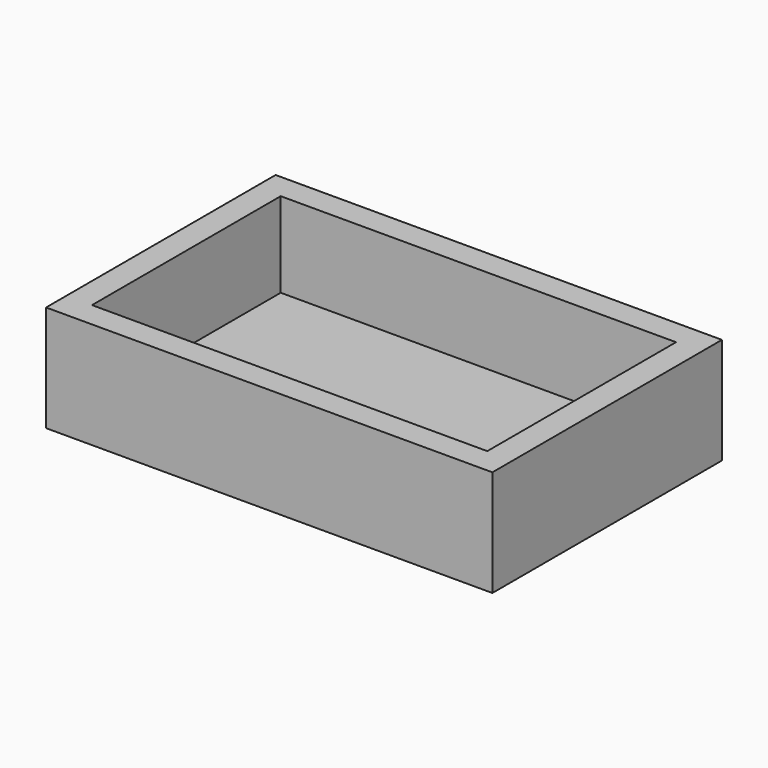
from build123d import *

# Parameters (mm, degrees)
SKETCH_W     = 210
SKETCH_H     = 135
PAD_DEPTH    = 50
SKETCH001_W  = 186
SKETCH001_H  = 111
POCKET_DEPTH = 40


with BuildPart() as part:
    # Sketch → Pad (new body)
    with BuildSketch(Plane.XY):
        Rectangle(SKETCH_W, SKETCH_H)
    extrude(amount=PAD_DEPTH)

    # Sketch001 (on Face6 of Pad) → Pocket (cut)
    with BuildSketch(Plane.XY.offset(50)):
        Rectangle(SKETCH001_W, SKETCH001_H)
    extrude(amount=-POCKET_DEPTH, mode=Mode.SUBTRACT)


solid = part.part
